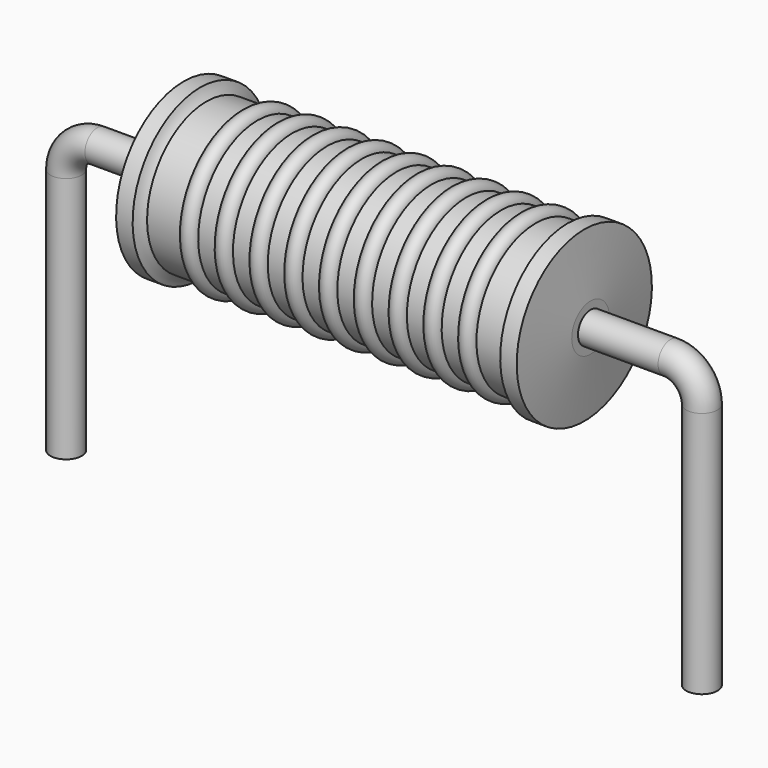
from build123d import *

# Parameters (mm, degrees)
SKETCH_R = 0.25


with BuildPart() as revolution:
    # Sketch002 → Revolution (revolve)
    with BuildSketch(Plane.XZ):
        with BuildLine():
            Line((1.879, 2.8), (2.143, 2.8))
            ThreePointArc((2.143, 2.8), (2.183636, 2.712182), (2.242, 2.635))
            Line((2.242, 2.635), (7.918, 2.635))
            ThreePointArc((7.918, 2.635), (7.976364, 2.712182), (8.017, 2.8))
            Line((8.017, 2.8), (8.281, 2.8))
            ThreePointArc((8.38, 1.825), (8.33106, 2.312557), (8.281, 2.8))
            Line((8.38, 1.45), (8.38, 1.825))
            Line((1.78, 1.45), (8.38, 1.45))
            Line((1.78, 1.45), (1.78, 1.825))
            ThreePointArc((1.879, 2.8), (1.82894, 2.312557), (1.78, 1.825))
        make_face()
    revolve(axis=Axis((1.78, 0, 1.45), (1, 0, 0)))


with BuildPart() as sweep_body:
    # Sweep: sweep along a path in Sketch001
    with BuildLine(Plane.XZ) as sweep_path:
        Line((0, -3), (0, 0.95))
        ThreePointArc((0, 0.95), (0.146449, 1.303556), (0.500006, 1.45))
        Line((0.500006, 1.45), (9.66, 1.45))
        ThreePointArc((9.66, 1.45), (10.013553, 1.303553), (10.16, 0.95))
        Line((10.16, 0.95), (10.16, -3))
    # Sketch → Sweep (sweep)
    with BuildSketch(Plane.XY.offset(-2)):
        Circle(SKETCH_R)
    sweep(path=sweep_path.line)


with BuildPart() as revolution001:
    # Sketch003 → Revolution001 (revolve)
    with BuildSketch(Plane.XZ):
        with BuildLine():
            ThreePointArc((3.061789, 2.6086), (2.922842, 2.747547), (2.783895, 2.6086))
            Line((2.506, 2.6086), (2.783895, 2.6086))
            Line((2.506, 2.6086), (2.506, 2.3386))
            Line((2.506, 2.3386), (7.786, 2.3386))
            Line((7.786, 2.3386), (7.786, 2.6086))
            Line((7.508105, 2.6086), (7.786, 2.6086))
            ThreePointArc((7.508105, 2.6086), (7.369158, 2.747547), (7.230211, 2.6086))
            Line((6.952316, 2.6086), (7.230211, 2.6086))
            ThreePointArc((6.952316, 2.6086), (6.813368, 2.747547), (6.674421, 2.6086))
            Line((6.396526, 2.6086), (6.674421, 2.6086))
            ThreePointArc((6.396526, 2.6086), (6.257579, 2.747547), (6.118632, 2.6086))
            Line((5.840737, 2.6086), (6.118632, 2.6086))
            ThreePointArc((5.840737, 2.6086), (5.701789, 2.747547), (5.562842, 2.6086))
            Line((5.284947, 2.6086), (5.562842, 2.6086))
            ThreePointArc((5.284947, 2.6086), (5.146, 2.747547), (5.007053, 2.6086))
            Line((4.729158, 2.6086), (5.007053, 2.6086))
            ThreePointArc((4.729158, 2.6086), (4.590211, 2.747547), (4.451263, 2.6086))
            Line((4.173368, 2.6086), (4.451263, 2.6086))
            ThreePointArc((4.173368, 2.6086), (4.034421, 2.747547), (3.895474, 2.6086))
            Line((3.617579, 2.6086), (3.895474, 2.6086))
            ThreePointArc((3.617579, 2.6086), (3.478632, 2.747547), (3.339684, 2.6086))
            Line((3.061789, 2.6086), (3.339684, 2.6086))
        make_face()
    revolve(axis=Axis((1.945, 0, 1.45), (1, 0, 0)))


solid = Compound([revolution.part, sweep_body.part, revolution001.part])
